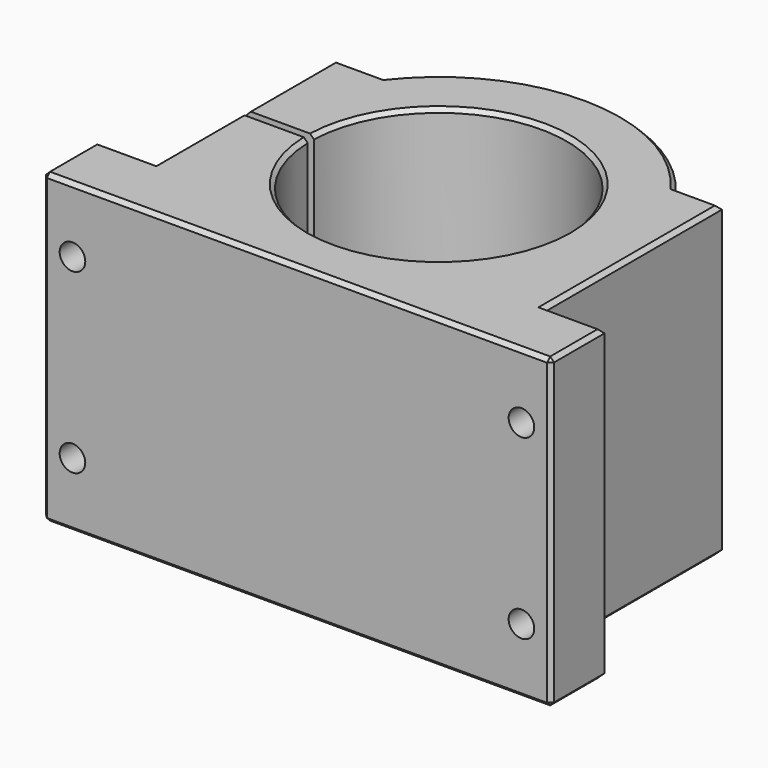
from build123d import *

# Parameters (mm, degrees)
PAD012_DEPTH            = 39
HOLE003_D               = 5.8
HOLE003_DEPTH           = 50
HOLE003_CBORE_D         = 9.5
HOLE003_CBORE_DEPTH     = 5.4
HOLE003_TIPS_R          = 2.9
CHAMFER002_SIZE         = 1
SKETCH018_R             = 3.25
POCKET002_DEPTH         = 370.209154
BODY004_PLACEMENT_ANGLE = 270


with BuildPart() as part:
    # Sketch016 → Pad012 (new body, symmetric)
    with BuildSketch(Plane.XZ):
        with BuildLine():
            ThreePointArc((-32.484612, -1), (32.5, 0), (-32.484612, 1))
            Line((-49.5, 1), (-32.484612, 1))
            Line((-49.5, 1), (-49.5, 28))
            Line((-49.5, 28), (-37.749172, 28))
            ThreePointArc((37.749172, 28), (0, 47), (-37.749172, 28))
            Line((37.749172, 28), (49.5, 28))
            Line((49.5, 28), (49.5, -28))
            Line((64.5, -28), (49.5, -28))
            Line((64.5, -45), (64.5, -28))
            Line((-64.5, -45), (64.5, -45))
            Line((-64.5, -28), (-64.5, -45))
            Line((-49.5, -28), (-64.5, -28))
            Line((-49.5, -28), (-49.5, -1))
            Line((-32.484612, -1), (-49.5, -1))
        make_face()
    extrude(amount=PAD012_DEPTH, both=True)

    # Hole003
    with Locations(Plane(origin=(0, 0, 28), x_dir=(-1, 0, 0), z_dir=(0, 0, 1))):
        with Locations((43.624586, 0), (43.624586, 22.5), (43.624586, -22.5)):
            CounterBoreHole(HOLE003_D / 2, HOLE003_CBORE_D / 2, HOLE003_CBORE_DEPTH, depth=HOLE003_DEPTH)

    # Hole003 tips → Hole003 tip 1 section 0
    with BuildSketch(Plane(origin=(0, 0, -22), x_dir=(-1, 0, 0), z_dir=(0, 0, 1)), mode=Mode.PRIVATE) as hole003_tip_1_s0:
        with Locations((43.624586, 0)):
            Circle(HOLE003_TIPS_R)
    loft([hole003_tip_1_s0.sketch, Vertex(-43.624586, 0, -23.742496)], mode=Mode.SUBTRACT)

    # Hole003 tips → Hole003 tip 2 section 0
    with BuildSketch(Plane(origin=(0, 0, -22), x_dir=(-1, 0, 0), z_dir=(0, 0, 1)), mode=Mode.PRIVATE) as hole003_tip_2_s0:
        with Locations((43.624586, 22.5)):
            Circle(HOLE003_TIPS_R)
    loft([hole003_tip_2_s0.sketch, Vertex(-43.624586, -22.5, -23.742496)], mode=Mode.SUBTRACT)

    # Hole003 tips → Hole003 tip 3 section 0
    with BuildSketch(Plane(origin=(0, 0, -22), x_dir=(-1, 0, 0), z_dir=(0, 0, 1)), mode=Mode.PRIVATE) as hole003_tip_3_s0:
        with Locations((43.624586, -22.5)):
            Circle(HOLE003_TIPS_R)
    loft([hole003_tip_3_s0.sketch, Vertex(-43.624586, 22.5, -23.742496)], mode=Mode.SUBTRACT)

    # Chamfer002
    chamfer002_edges = [part.edges().sort_by_distance(p)[0] for p in [
        (32.5, 39, 0),
        (32.5, -39, 0),
        (0, -39, 47),
        (43.624586, -39, 28),
        (49.5, -39, 0),
        (57, -39, -28),
        (64.5, -39, -36.5),
        (-64.5, -39, -36.5),
        (-57, -39, -28),
        (-49.5, -39, -14.5),
        (-49.5, -39, 14.5),
        (0, -39, -45),
        (0, 39, 47),
        (-43.624586, 39, 28),
        (-49.5, 39, 14.5),
        (-49.5, 39, -14.5),
        (-57, 39, -28),
        (-64.5, 39, -36.5),
        (0, 39, -45),
        (64.5, 39, -36.5),
        (57, 39, -28),
        (49.5, 39, 0),
        (43.624586, 39, 28),
        (-64.5, 0, -45),
        (64.5, 0, -45),
    ]]
    chamfer(chamfer002_edges, length=CHAMFER002_SIZE)

    # Sketch018 (on Face51 of Chamfer002) → Pocket002 (cut, through all)
    with BuildSketch(Plane(origin=(0, 0, -28), x_dir=(-1, 0, 0), z_dir=(0, 0, 1))):
        with Locations((-57, 22.5)):
            Circle(SKETCH018_R)
        with Locations((-57, -22.5)):
            Circle(SKETCH018_R)
    pocket002 = extrude(amount=-POCKET002_DEPTH, mode=Mode.SUBTRACT)

    # Mirrored001: Pocket002 across YZ
    add(pocket002.mirror(Plane.YZ), mode=Mode.SUBTRACT)


with BuildPart() as part_1:
    # Body004 placement: moved
    add(part.part.moved(Location((-170, 173, 0))).rotate(Axis((-170, 173, 0), (1, 0, 0)), BODY004_PLACEMENT_ANGLE))


solid = part_1.part
